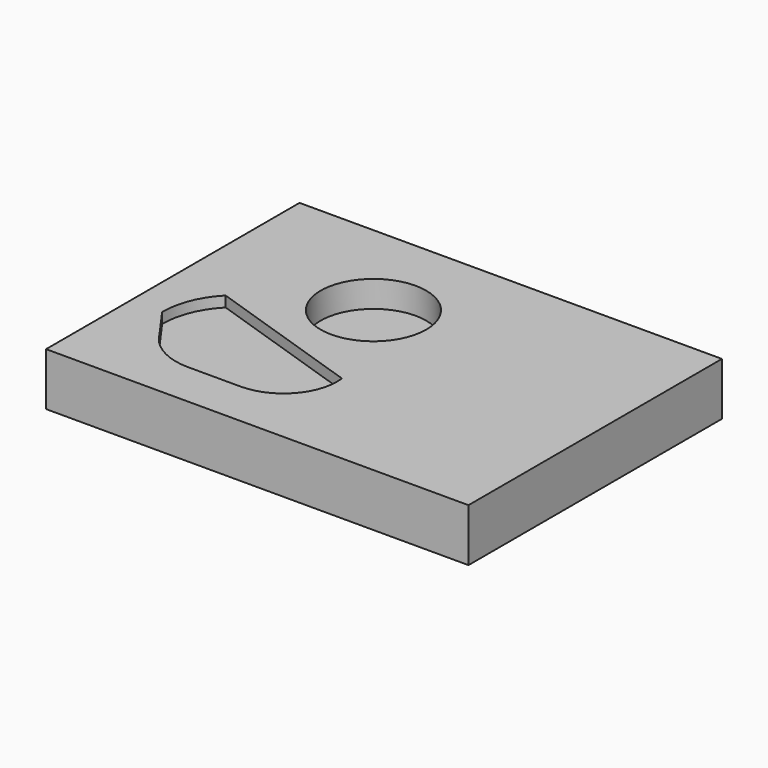
from build123d import *

# Parameters (mm, degrees)
SKETCH_W        = 80
SKETCH_H        = 60
PAD_DEPTH       = 10
SKETCH001_R     = 10
POCKET_DEPTH    = 5
POCKET001_DEPTH = 2


with BuildPart() as part:
    # Sketch → Pad (new body)
    with BuildSketch(Plane.XY):
        Rectangle(SKETCH_W, SKETCH_H)
    extrude(amount=PAD_DEPTH)

    # Sketch001 (on Face6 of Pad) → Pocket (cut)
    with BuildSketch(Plane.XY.offset(10)):
        with Locations((-10, 10)):
            Circle(SKETCH001_R)
    extrude(amount=-POCKET_DEPTH, mode=Mode.SUBTRACT)

    # Sketch002 (on Face5 of Pocket) → Pocket001 (cut)
    with BuildSketch(Plane.XY.offset(10)):
        with BuildLine():
            ThreePointArc((-30.000583, 0), (-33.010965, -4.59723), (-34.023498, -9.998313))
            Line((-29.997176, -15.631595), (-34.023498, -9.998313))
            ThreePointArc((-29.997176, -15.631595), (-25.76815, -19.846144), (-19.999989, -21.387374))
            Line((-10.000209, -21.387374), (-19.999989, -21.387374))
            ThreePointArc((-10.000209, -21.387374), (-2.422236, -17.948362), (0.037886, -9.998502))
            Line((-30.000583, 0), (0.037886, -9.998502))
        make_face()
    extrude(amount=-POCKET001_DEPTH, mode=Mode.SUBTRACT)


with BuildPart() as part_1:
    # Clone placement: moved
    add(part.part.moved(Location((41, 31, -11))))


solid = part_1.part
